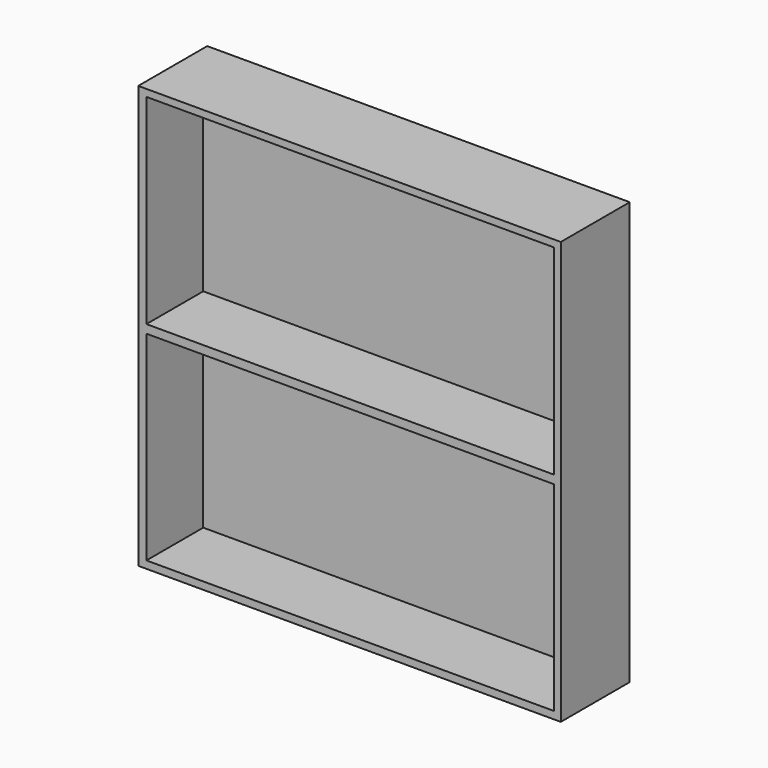
from build123d import *

# Parameters (mm, degrees)
F0_W     = 762
F0_H     = 762
F1_DEPTH = 155.448
F3_DEPTH = 128.016


with BuildPart() as f1:
    # F0 (on Front) → F1 (new body)
    with BuildSketch(Plane.XZ):
        with Locations((-381, 381)):
            Rectangle(F0_W, F0_H)
    extrude(amount=F1_DEPTH)

    # F2 (on face) → F3 (cut)
    with BuildSketch(Plane.XZ.offset(155.448)):
        Polygon((-747.250676, 388.62), (-381, 388.62), (-11.85805, 388.62), (-11.85805, 749.354362), (-747.250676, 749.354362), align=None)
        Polygon((-381, 373.38), (-747.250676, 373.38), (-747.250676, 13.386413), (-11.85805, 13.386413), (-11.85805, 373.38), align=None)
    extrude(amount=-F3_DEPTH, mode=Mode.SUBTRACT)


solid = f1.part
